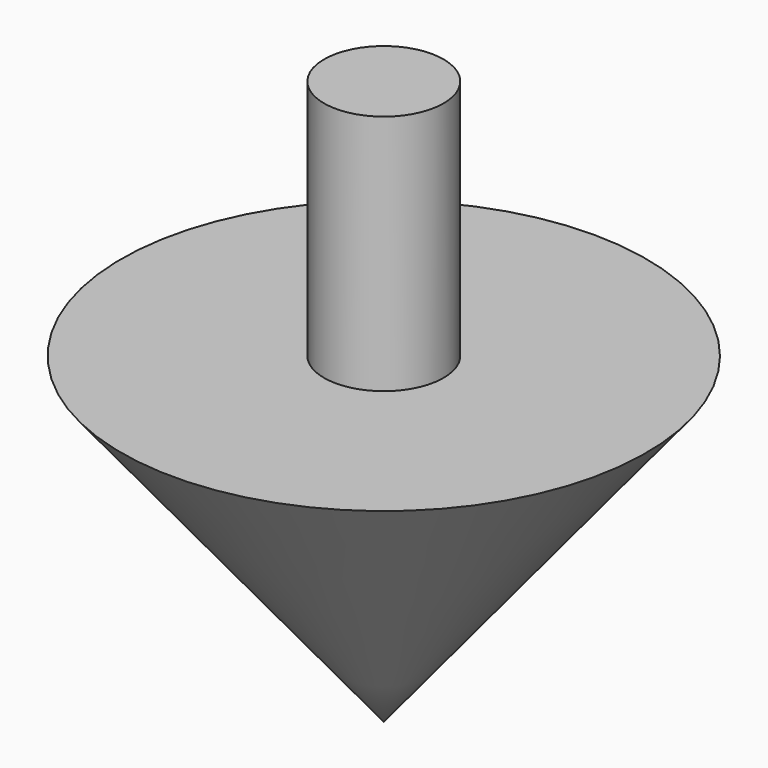
from build123d import *


with BuildPart() as f1:
    # F0 (on Right) → F1 (revolve)
    with BuildSketch(Plane.YZ):
        Polygon((4.388304, 26.227769), (0, 26.227769), (0, -15.205982), (19.288126, 8.470447), (4.388304, 8.470447), align=None)
    revolve(axis=Axis((0, 0, 5.510893), (0, 0, 1)))


solid = f1.part
